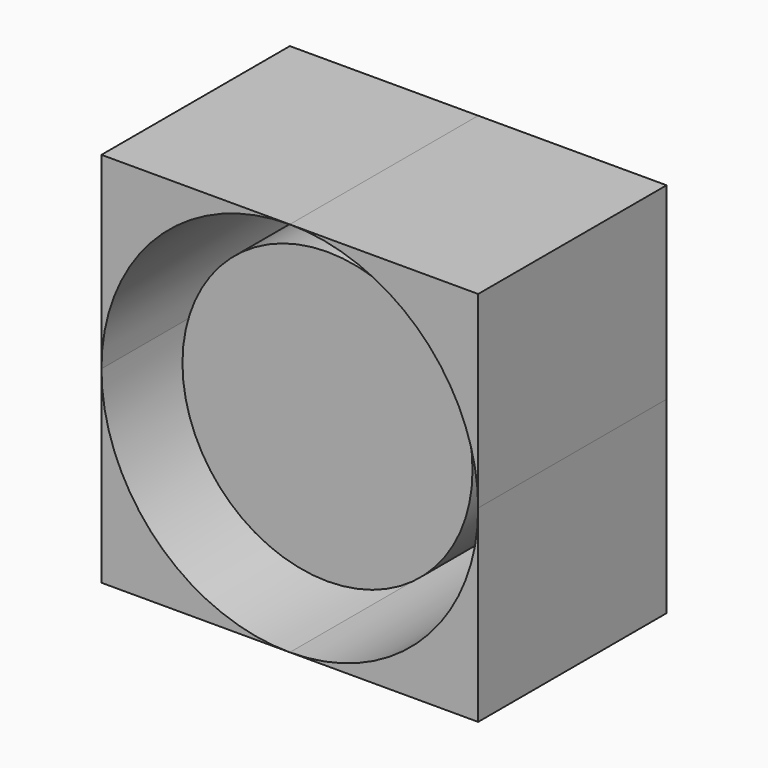
from build123d import *

# Parameters (mm, degrees)
F1_DEPTH = 31.75
F2_R     = 12.7
F3_DEPTH = 25.4
F4_R     = 19.556358
F5_DEPTH = 25.4


with BuildPart() as f1:
    # F0 (on Front) → F1 (new body)
    with BuildSketch(Plane.XZ):
        with BuildLine():
            Line((0, 25.4), (-25.4, 25.4))
            Line((-25.4, 25.4), (-25.4, 0))
            ThreePointArc((-25.4, 0), (-17.960512, 17.960512), (0, 25.4))
        make_face()
        with BuildLine():
            Line((25.4, 25.4), (0, 25.4))
            ThreePointArc((0, 25.4), (17.960512, 17.960512), (25.4, 0))
            Line((25.4, 0), (25.4, 25.4))
        make_face()
        with BuildLine():
            Line((25.4, -25.4), (25.4, 0))
            ThreePointArc((25.4, 0), (17.960512, -17.960512), (0, -25.4))
            Line((0, -25.4), (25.4, -25.4))
        make_face()
        with BuildLine():
            ThreePointArc((0, -25.4), (-17.960512, -17.960512), (-25.4, 0))
            Line((-25.4, 0), (-25.4, -25.4))
            Line((-25.4, -25.4), (0, -25.4))
        make_face()
    extrude(amount=F1_DEPTH)


with BuildPart() as f3:
    # F2 (on Front) → F3 (new body)
    with BuildSketch(Plane.XZ):
        Circle(F2_R)
    extrude(amount=F3_DEPTH)

    # F4 (on Front) → F5 (join)
    with BuildSketch(Plane.XZ):
        Circle(F4_R)
    extrude(amount=F5_DEPTH)


solid = Compound([f1.part, f3.part])
